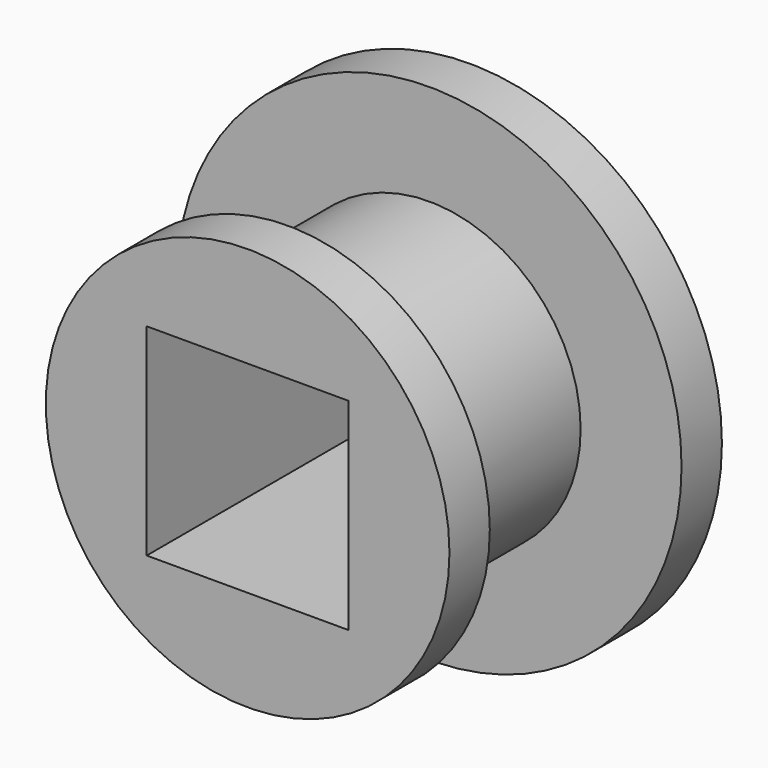
from build123d import *

# Parameters (mm, degrees)
F0_R     = 63.5
F0_W     = 50.8
F0_H     = 50.8
F1_DEPTH = 12.7
F2_R     = 38.1
F3_DEPTH = 57.15
F4_R     = 50.8
F5_DEPTH = 12.7
F6_W     = 50.8
F6_H     = 50.8
F7_DEPTH = 82.55
F8_R     = 6.35
F9_DEPTH = 12.7


with BuildPart() as f1:
    # F0 (on Front) → F1 (new body)
    with BuildSketch(Plane.XZ):
        Circle(F0_R)
        Rectangle(F0_W, F0_H, mode=Mode.SUBTRACT)
    extrude(amount=F1_DEPTH)

    # F2 (on Front) → F3 (join)
    with BuildSketch(Plane.XZ):
        Circle(F2_R)
    extrude(amount=F3_DEPTH)

    # F4 (on face) → F5 (join)
    with BuildSketch(Plane.XZ.offset(57.15)):
        Circle(F4_R)
    extrude(amount=F5_DEPTH)

    # F6 (on face) → F7 (cut)
    with BuildSketch(Plane(origin=(0, 0, 0), x_dir=(-1, 0, 0), z_dir=(0, 1, 0))):
        Rectangle(F6_W, F6_H)
    extrude(amount=-F7_DEPTH, mode=Mode.SUBTRACT)

    # F8 (on face) → F9 (cut)
    with BuildSketch(Plane(origin=(0, 0, 0), x_dir=(-1, 0, 0), z_dir=(0, 1, 0))):
        with Locations((0, -43.060273)):
            Circle(F8_R)
    extrude(amount=-F9_DEPTH, mode=Mode.SUBTRACT)


solid = f1.part
